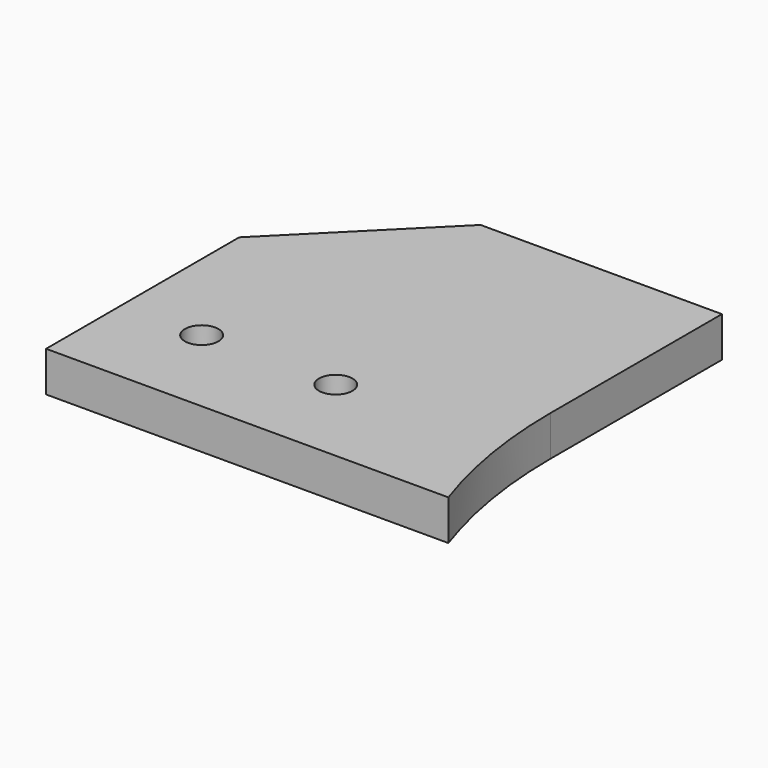
from build123d import *

# Parameters (mm, degrees)
BOX763_W           = 148
BOX763_H           = 74
BOX763_DEPTH       = 55
CYLINDER1803_R     = 2.5
CYLINDER1803_DEPTH = 20
CYLINDER1804_R     = 2.5
CYLINDER1804_DEPTH = 20
CYLINDER1802_R     = 74
CYLINDER1802_DEPTH = 32
BOX762_W           = 68
BOX762_H           = 56
BOX762_DEPTH       = 6
CHAMFER063_SIZE    = 20


with BuildPart() as krychle763:
    # Box763 → Box763 (new body)
    with BuildSketch(Plane(origin=(-74, 0, 29), x_dir=(1, 0, 0), z_dir=(0, 0, 1))):
        with Locations((74, 37)):
            Rectangle(BOX763_W, BOX763_H)
    extrude(amount=BOX763_DEPTH)


with BuildPart() as obj1:
    # Cylinder1803 → Cylinder1803 (new body)
    with BuildSketch(Plane(origin=(-90, -10, 66), x_dir=(1, 0, 0), z_dir=(0, 0, 1))):
        Circle(CYLINDER1803_R)
    extrude(amount=CYLINDER1803_DEPTH)


with BuildPart() as compound921:
    # Cylinder1804 → Cylinder1804 (new body)
    with BuildSketch(Plane(origin=(-110, -10, 66), x_dir=(1, 0, 0), z_dir=(0, 0, 1))):
        Circle(CYLINDER1804_R)
    extrude(amount=CYLINDER1804_DEPTH)

    # Compound921: union obj1
    add(obj1.part)


with BuildPart() as compound921_1:
    # Compound921 placement: moved
    add(compound921.part.moved(Location((-8, 0, 0))))


with BuildPart() as obj2:
    # Cylinder1802 → Cylinder1802 (new body)
    with BuildSketch(Plane.XY.offset(66)):
        Circle(CYLINDER1802_R)
    extrude(amount=CYLINDER1802_DEPTH)


with BuildPart() as cut566:
    # Box762 → Box762 (new body)
    with BuildSketch(Plane(origin=(-130, -24, 76), x_dir=(1, 0, 0), z_dir=(0, 0, 1))):
        with Locations((34, 28)):
            Rectangle(BOX762_W, BOX762_H)
    extrude(amount=BOX762_DEPTH)

    # Cut561: cut obj2
    add(obj2.part, mode=Mode.SUBTRACT)

    # Cut562: cut Compound921
    add(compound921_1.part, mode=Mode.SUBTRACT)


with BuildPart() as cut566_1:
    # Cut562 placement: moved
    add(cut566.part.moved(Location((0, 0, 2))))

    # Chamfer063
    chamfer063_edges = [cut566_1.edges().sort_by_distance(p)[0] for p in [
        (-130, 32, 81),
    ]]
    chamfer(chamfer063_edges, length=CHAMFER063_SIZE)

    # Cut566: cut Krychle763
    add(krychle763.part, mode=Mode.SUBTRACT)


solid = cut566_1.part
